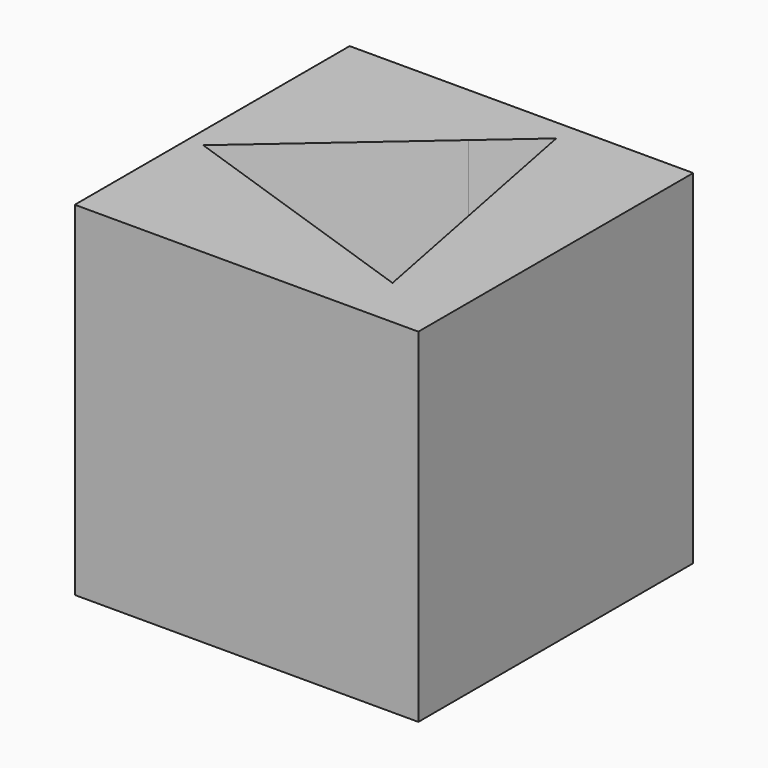
from build123d import *

# Parameters (mm, degrees)
F0_W     = 50
F0_H     = 50
F1_DEPTH = 50
F3_DEPTH = 55


with BuildPart() as f1:
    # F0 (on Top) → F1 (new body)
    with BuildSketch(Plane.XY):
        Rectangle(F0_W, F0_H)
    extrude(amount=F1_DEPTH)

    # F2 (on face) → F3 (cut)
    with BuildSketch(Plane.XY.offset(50)):
        Polygon((7.525486, 21.923712), (0, 15.369256), (-22.749234, -4.444594), (15.223748, -17.479118), align=None)
    extrude(amount=-F3_DEPTH, mode=Mode.SUBTRACT)


solid = f1.part
